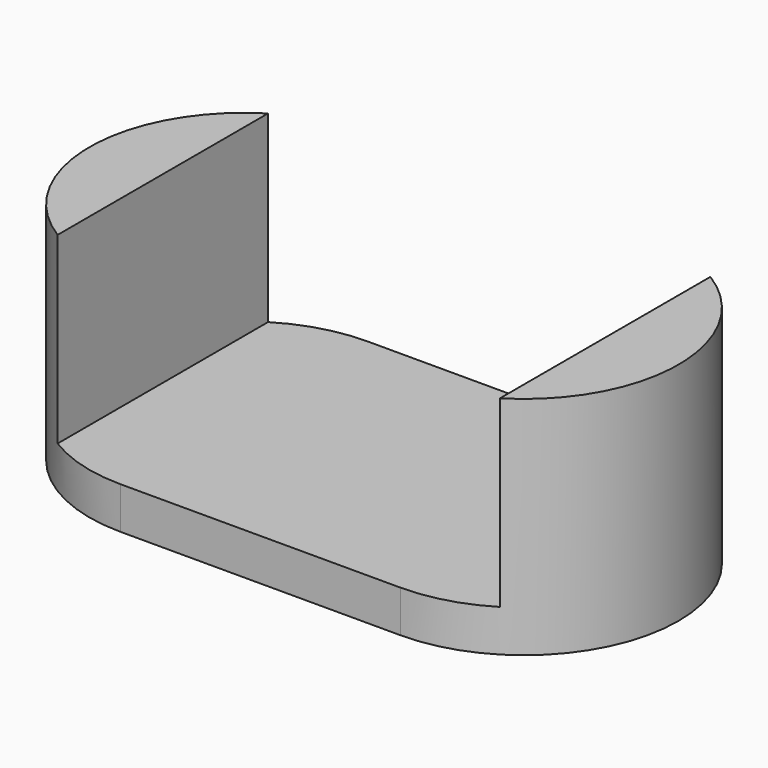
from build123d import *

# Parameters (mm, degrees)
F1_DEPTH = 8.0645
F3_DEPTH = 6.5659


with BuildPart() as f1:
    # F0 (on Top) → F1 (new body)
    with BuildSketch(Plane.XY):
        with BuildLine():
            ThreePointArc((5.0038, -5.5245), (10.5283, 0), (5.0038, 5.5245))
            Line((5.0038, 5.5245), (-5.0038, 5.5245))
            ThreePointArc((-5.0038, 5.5245), (-10.5283, 0), (-5.0038, -5.5245))
            Line((-5.0038, -5.5245), (5.0038, -5.5245))
        make_face()
    extrude(amount=F1_DEPTH)

    # F2 (on face) → F3 (cut)
    with BuildSketch(Plane.XY.offset(8.0645)):
        with BuildLine():
            Line((7.90575, -4.700935), (7.90575, 4.700935))
            ThreePointArc((7.90575, 4.700935), (6.512075, 5.314622), (5.0038, 5.5245))
            Line((5.0038, 5.5245), (-5.0038, 5.5245))
            ThreePointArc((-5.0038, 5.5245), (-6.512075, 5.314622), (-7.90575, 4.700935))
            Line((-7.90575, 4.700935), (-7.90575, -4.700935))
            ThreePointArc((-7.90575, -4.700935), (-6.512075, -5.314622), (-5.0038, -5.5245))
            Line((-5.0038, -5.5245), (5.0038, -5.5245))
            ThreePointArc((5.0038, -5.5245), (6.512075, -5.314622), (7.90575, -4.700935))
        make_face()
    extrude(amount=-F3_DEPTH, mode=Mode.SUBTRACT)


solid = f1.part
